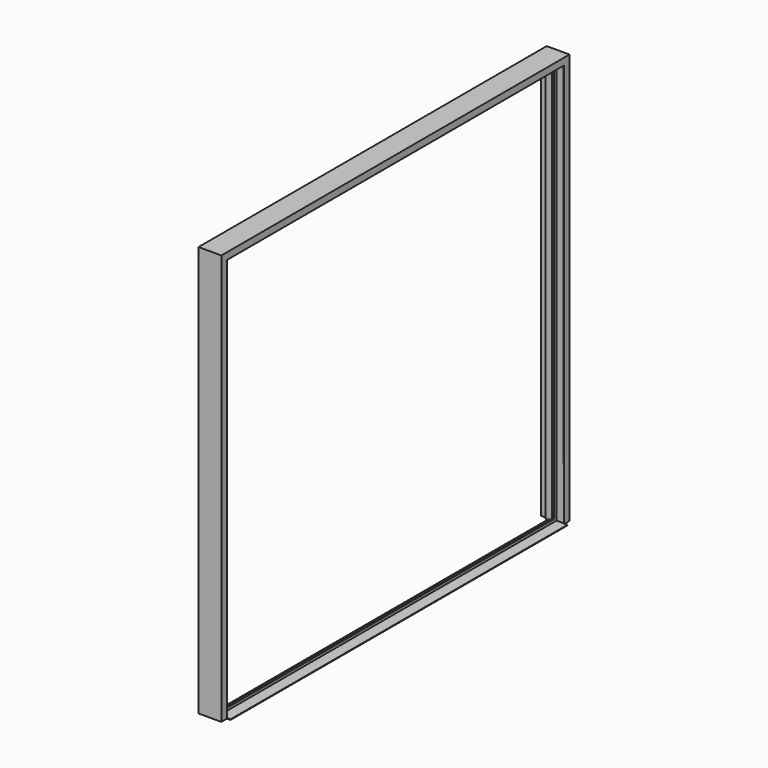
from build123d import *

# Parameters (mm, degrees)
F3_R          = 1.905
F6_DEPTH      = 1524
F6_DEPTH_BACK = 1524
F7_W          = 12.7
F7_H          = 50.8
F8_DEPTH      = 19.05


with BuildPart() as f2:
    # F2: sweep along a path in F1
    with BuildLine(Plane.YZ) as f2_path:
        Line((-50.8, 0), (-50.8, 2921))
        Line((-50.8, 2921), (-3098.8, 2921))
        Line((-3098.8, 2921), (-3098.8, 0))
    # F0 (on Top) → F2 (sweep)
    with BuildSketch(Plane.XY):
        Polygon((165.1, 0), (0, 0), (0, -50.8), (42.8625, -50.8), (42.8625, -63.5), (87.3125, -63.5), (87.3125, -66.04), (100.0125, -66.04), (100.0125, -76.2), (112.7125, -76.2), (112.7125, -50.8), (165.1, -50.8), align=None)
    sweep(path=f2_path.line, transition=Transition.RIGHT)

    # F3
    f3_edges = [f2.edges().sort_by_distance(p)[0] for p in [
        (0, -50.8, 1460.5),
        (42.8625, -50.8, 1460.5),
        (42.8625, -63.5, 1454.15),
        (165.1, -50.8, 1460.5),
        (165.1, -1574.8, 2921),
        (0, -1574.8, 2921),
        (42.8625, -1574.8, 2921),
        (42.8625, -1574.8, 2908.3),
        (0, -3098.8, 1460.5),
        (42.8625, -3098.8, 1460.5),
        (42.8625, -3086.1, 1454.15),
        (100.0125, -3083.56, 1452.88),
        (100.0125, -1574.8, 2905.76),
        (100.0125, -66.04, 1452.88),
    ]]
    fillet(f3_edges, radius=F3_R)

    # F5 (on mid) → F6 (join, two sides)
    with BuildSketch(Plane.XZ.offset(1574.8)) as f6_sk:
        Polygon((63.5, 3.81), (63.5, 0), (190.5, 0), (190.5, 3.81), (112.7125, 6.35), (112.7125, 25.4), (100.0125, 25.4), (100.0125, 6.35), align=None)
    extrude(amount=-F6_DEPTH)
    extrude(f6_sk.sketch, amount=F6_DEPTH_BACK)

    # F7 (on face) → F8 (join)
    with BuildSketch(Plane(origin=(0, 0, 2905.76), x_dir=(1, 0, 0), z_dir=(0, 0, -1))):
        with Locations((91.7575, 482.6)):
            Rectangle(F7_W, F7_H)
    extrude(amount=F8_DEPTH)


solid = f2.part
